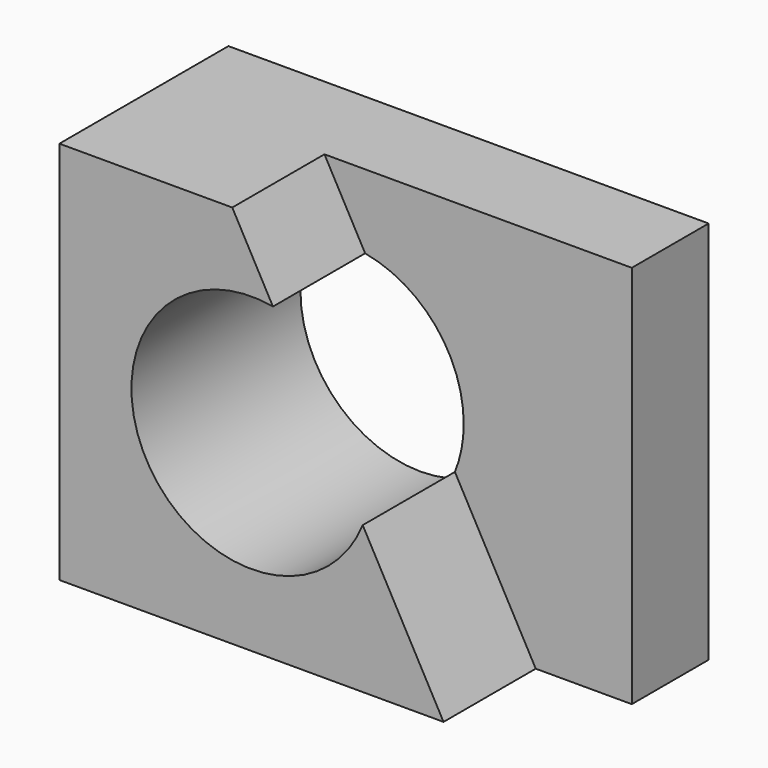
from build123d import *

# Parameters (mm, degrees)
F0_W     = 100
F0_H     = 80
F0_R     = 25
F1_DEPTH = 44
F3_DEPTH = 24


with BuildPart() as f1:
    # F0 (on Front) → F1 (new body)
    with BuildSketch(Plane.XZ):
        with Locations((50, 40)):
            Rectangle(F0_W, F0_H)
        with Locations((40, 40)):
            Circle(F0_R, mode=Mode.SUBTRACT)
    extrude(amount=F1_DEPTH)

    # F2 (on face) → F3 (cut)
    with BuildSketch(Plane.XZ.offset(44)):
        Polygon((100, 80), (36, 80), (80, 0), (100, 0), align=None)
    extrude(amount=-F3_DEPTH, mode=Mode.SUBTRACT)


solid = f1.part
